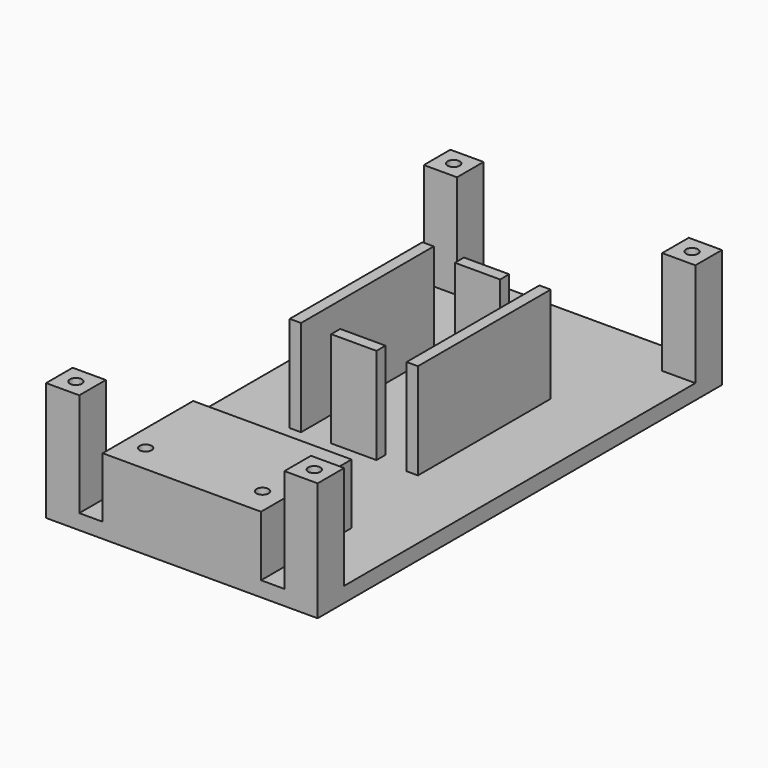
from build123d import *

# Parameters (mm, degrees)
SKETCH_W      = 36
SKETCH_H      = 67
PAD_DEPTH     = 2
SKETCH002_W   = 1.5
SKETCH002_H   = 22
SKETCH002_W_2 = 6
SKETCH002_H_2 = 1.5
PAD001_DEPTH  = 12.75
SKETCH001_W   = 21
SKETCH001_H   = 15
SKETCH001_R   = 0.8
PAD006_DEPTH  = 8
SKETCH018_W   = 4.4
SKETCH018_H   = 4.4
SKETCH018_R   = 0.8
PAD020_DEPTH  = 13.75


with BuildPart() as part:
    # Sketch → Pad (new body)
    with BuildSketch(Plane.XY):
        with Locations((18, 33.5)):
            Rectangle(SKETCH_W, SKETCH_H)
    extrude(amount=PAD_DEPTH)

    # Sketch002 (on DatumPlane) → Pad001 (join)
    with BuildSketch(Plane.XY.offset(2)):
        with Locations((10.25, 39.5)):
            Rectangle(SKETCH002_W, SKETCH002_H)
        with Locations((18, 29.25)):
            Rectangle(SKETCH002_W_2, SKETCH002_H_2)
        with Locations((25.75, 39.5)):
            Rectangle(SKETCH002_W, SKETCH002_H)
        with Locations((18, 49.75)):
            Rectangle(SKETCH002_W_2, SKETCH002_H_2)
    extrude(amount=PAD001_DEPTH)

    # Sketch001 (on DatumPlane) → Pad006 (join)
    with BuildSketch(Plane.XY.offset(2)):
        with Locations((18, 7.5)):
            Rectangle(SKETCH001_W, SKETCH001_H)
        with Locations((10.253, 3.69)):
            Circle(SKETCH001_R, mode=Mode.SUBTRACT)
        with Locations((25.747, 3.69)):
            Circle(SKETCH001_R, mode=Mode.SUBTRACT)
    extrude(amount=PAD006_DEPTH)

    # Sketch018 (on DatumPlane) → Pad020 (join)
    with BuildSketch(Plane.XY.offset(2)):
        with Locations((2.2, 2.2)):
            Rectangle(SKETCH018_W, SKETCH018_H)
        with Locations((2.2, 2.2)):
            Circle(SKETCH018_R, mode=Mode.SUBTRACT)
        with Locations((33.8, 2.2)):
            Rectangle(SKETCH018_W, SKETCH018_H)
        with Locations((33.8, 2.2)):
            Circle(SKETCH018_R, mode=Mode.SUBTRACT)
        with Locations((33.8, 64.8)):
            Rectangle(SKETCH018_W, SKETCH018_H)
        with Locations((33.8, 64.8)):
            Circle(SKETCH018_R, mode=Mode.SUBTRACT)
        with Locations((2.2, 64.8)):
            Rectangle(SKETCH018_W, SKETCH018_H)
        with Locations((2.2, 64.8)):
            Circle(SKETCH018_R, mode=Mode.SUBTRACT)
    extrude(amount=PAD020_DEPTH)


solid = part.part
